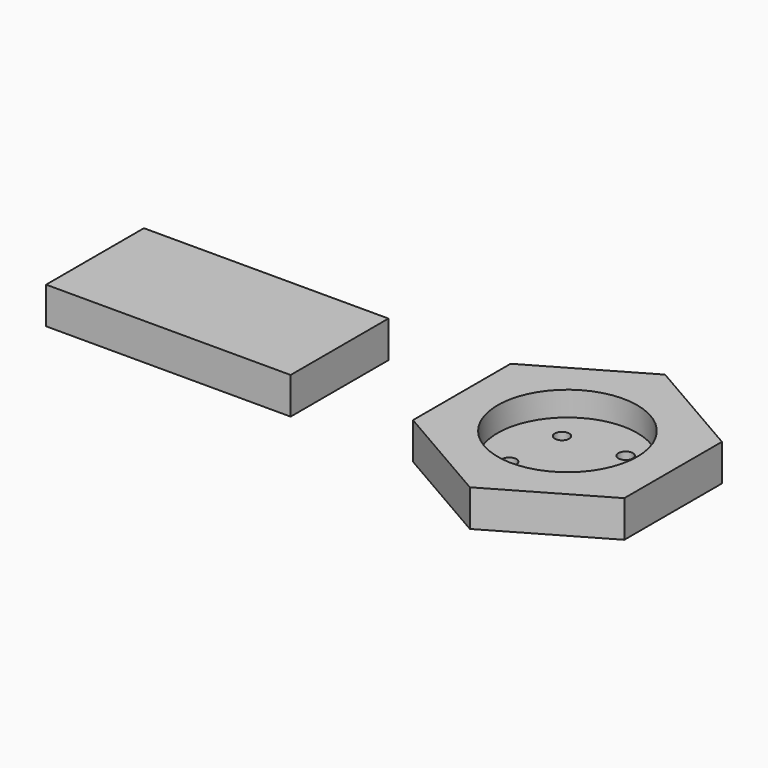
from build123d import *

# Parameters (mm, degrees)
F2_DEPTH  = 7.62
F3_R      = 14.5
F4_DEPTH  = 5.08
F6_R      = 1.5
F10_DEPTH = 2.541
F7_R      = 1.5
F11_DEPTH = 2.541
F8_R      = 1.5
F12_DEPTH = 2.541
F9_R      = 1.5
F13_DEPTH = 2.541
F0_W      = 50.8
F0_H      = 25.4
F14_DEPTH = 7.62


with BuildPart() as f2:
    # F1 (on Top) → F2 (new body)
    with BuildSketch(Plane.XY):
        Polygon((94.692336, -12.672174), (94.692336, 12.672174), (72.743488, 25.344348), (50.794639, 12.672174), (50.794639, -12.672174), (72.743488, -25.344348), align=None)
    extrude(amount=F2_DEPTH)

    # F3 (on face) → F4 (cut)
    with BuildSketch(Plane.XY.offset(7.62)):
        with Locations((72.743488, 0)):
            Circle(F3_R)
    extrude(amount=-F4_DEPTH, mode=Mode.SUBTRACT)

    # F6 (on face) → F10 (cut, through all)
    with BuildSketch(Plane.XY.offset(2.54)):
        with Locations((67.086555, 5.656938)):
            Circle(F6_R)
    extrude(amount=-F10_DEPTH, mode=Mode.SUBTRACT)

    # F7 (on face) → F11 (cut, through all)
    with BuildSketch(Plane.XY.offset(2.54)):
        with Locations((79.460986, 6.717544)):
            Circle(F7_R)
    extrude(amount=-F11_DEPTH, mode=Mode.SUBTRACT)

    # F8 (on face) → F12 (cut, through all)
    with BuildSketch(Plane.XY.offset(2.54)):
        with Locations((78.400277, -5.656807)):
            Circle(F8_R)
    extrude(amount=-F12_DEPTH, mode=Mode.SUBTRACT)

    # F9 (on face) → F13 (cut, through all)
    with BuildSketch(Plane.XY.offset(2.54)):
        with Locations((66.025883, -6.717487)):
            Circle(F9_R)
    extrude(amount=-F13_DEPTH, mode=Mode.SUBTRACT)


with BuildPart() as f14:
    # F0 (on Top) → F14 (new body)
    with BuildSketch(Plane.XY):
        Rectangle(F0_W, F0_H)
    extrude(amount=F14_DEPTH)


solid = Compound([f2.part, f14.part])
